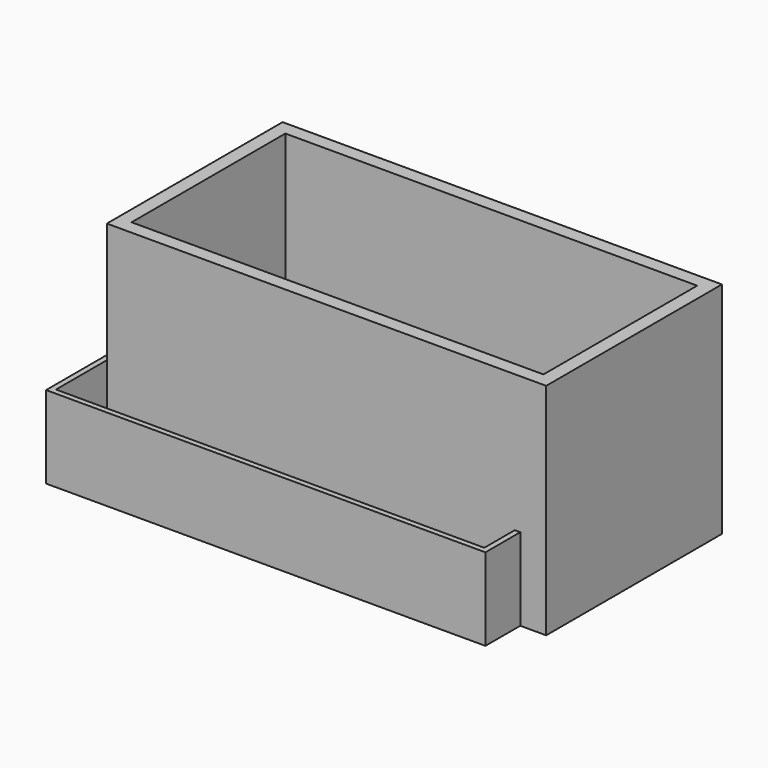
from build123d import *

# Parameters (mm, degrees)
F0_W     = 203.2
F0_H     = 101.6
F1_DEPTH = 101.6
F2_T     = -6.35
F3_W     = 203.2
F3_H     = 101.6
F4_DEPTH = 38.1
F5_T     = -2.54


with BuildPart() as f1:
    # F0 (on Top) → F1 (new body)
    with BuildSketch(Plane.XY):
        with Locations((11.992132, 20.154061)):
            Rectangle(F0_W, F0_H)
    extrude(amount=F1_DEPTH)

    # F2
    f2_openings = [f1.faces().sort_by_distance(p)[0] for p in [
        (11.992132, 20.154061, 101.6),
    ]]
    offset(amount=F2_T, openings=f2_openings)


with BuildPart() as f4:
    # F3 (on Top) → F4 (new body)
    with BuildSketch(Plane.XY):
        Rectangle(F3_W, F3_H)
    extrude(amount=F4_DEPTH)

    # F5
    f5_openings = [f4.faces().sort_by_distance(p)[0] for p in [
        (0, 0, 38.1),
    ]]
    offset(amount=F5_T, openings=f5_openings)


solid = Compound([f1.part, f4.part])
